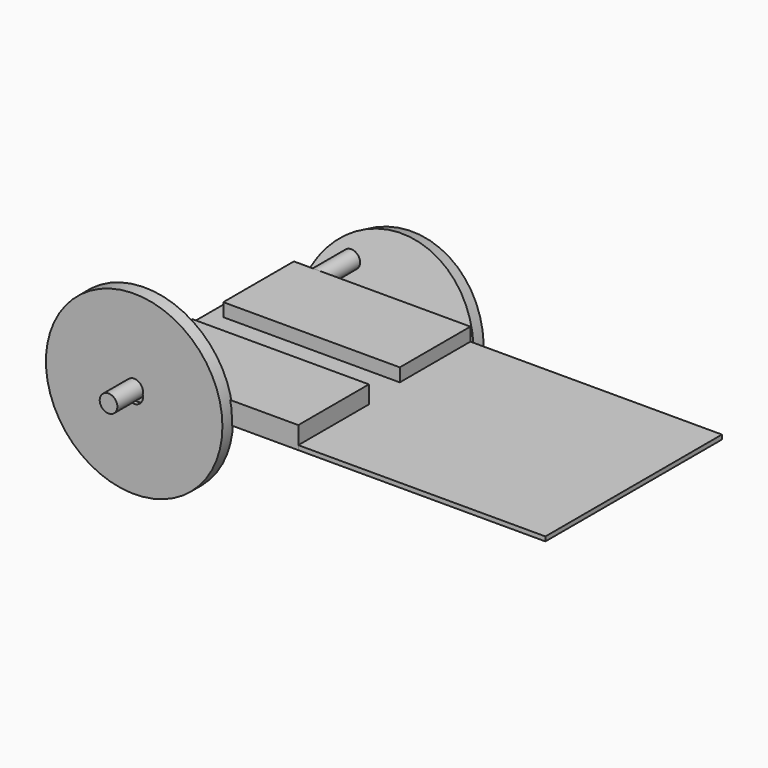
from build123d import *

# Parameters (mm, degrees)
CYLINDER_R             = 2
CYLINDER_DEPTH         = 10
BOX_W                  = 40
BOX_H                  = 20
BOX_DEPTH              = 5
FUSION_PLACEMENT_ANGLE = 180
BOX001_W               = 100
BOX001_H               = 50
BOX001_DEPTH           = 1
CYLINDER002_R          = 2
CYLINDER002_DEPTH      = 10
CYLINDER001_R          = 20
CYLINDER001_DEPTH      = 3
CUT_PLACEMENT_ANGLE    = 90
CYLINDER003_R          = 2
CYLINDER003_DEPTH      = 10
BOX002_W               = 40
BOX002_H               = 20
BOX002_DEPTH           = 5
CYLINDER005_R          = 2
CYLINDER005_DEPTH      = 10
CYLINDER004_R          = 20
CYLINDER004_DEPTH      = 3
CUT001_PLACEMENT_ANGLE = 75


with BuildPart() as cylinder:
    # Cylinder → Cylinder (new body)
    with BuildSketch(Plane(origin=(5, 0, 2), x_dir=(1, 0, 0), z_dir=(0, -1, 0))):
        Circle(CYLINDER_R)
    extrude(amount=CYLINDER_DEPTH)


with BuildPart() as servo_con_eje:
    # Box → Box (new body)
    with BuildSketch(Plane.XY):
        with Locations((20, 10)):
            Rectangle(BOX_W, BOX_H)
    extrude(amount=BOX_DEPTH)

    # Fusion: union Cylinder
    add(cylinder.part)


with BuildPart() as servo_con_eje_1:
    # Fusion placement: moved
    add(servo_con_eje.part.moved(Location((3, 50, 4))).rotate(Axis((3, 50, 4), (1, 0, 0)), FUSION_PLACEMENT_ANGLE))


with BuildPart() as cube001:
    # Box001 → Box001 (new body)
    with BuildSketch(Plane.XY):
        with Locations((50, 25)):
            Rectangle(BOX001_W, BOX001_H)
    extrude(amount=BOX001_DEPTH)


with BuildPart() as cylinder002:
    # Cylinder002 → Cylinder002 (new body)
    with BuildSketch(Plane(origin=(73, 0, 2), x_dir=(1, 0, 0), z_dir=(0, 0, 1))):
        Circle(CYLINDER002_R)
    extrude(amount=CYLINDER002_DEPTH)


with BuildPart() as cut:
    # Cylinder001 → Cylinder001 (new body)
    with BuildSketch(Plane(origin=(73, 0, 0), x_dir=(1, 0, 0), z_dir=(0, 0, 1))):
        Circle(CYLINDER001_R)
    extrude(amount=CYLINDER001_DEPTH)

    # Cut: cut Cylinder002
    add(cylinder002.part, mode=Mode.SUBTRACT)


with BuildPart() as cut_1:
    # Cut placement: moved
    add(cut.part.moved(Location((-64, 0.258819, 0.965926))).rotate(Axis((-64, 0.258819, 0.965926), (1, 0, 0)), CUT_PLACEMENT_ANGLE))


with BuildPart() as cylinder003:
    # Cylinder003 → Cylinder003 (new body)
    with BuildSketch(Plane(origin=(5, 0, 2), x_dir=(1, 0, 0), z_dir=(0, -1, 0))):
        Circle(CYLINDER003_R)
    extrude(amount=CYLINDER003_DEPTH)


with BuildPart() as servo_con_eje001:
    # Box002 → Box002 (new body)
    with BuildSketch(Plane.XY):
        with Locations((20, 10)):
            Rectangle(BOX002_W, BOX002_H)
    extrude(amount=BOX002_DEPTH)

    # Fusion001: union Cylinder003
    add(cylinder003.part)


with BuildPart() as servo_con_eje001_1:
    # Fusion001 placement: moved
    add(servo_con_eje001.part.moved(Location((4, 0, 0))))


with BuildPart() as cylinder005:
    # Cylinder005 → Cylinder005 (new body)
    with BuildSketch(Plane(origin=(73, 0, 2), x_dir=(1, 0, 0), z_dir=(0, 0, 1))):
        Circle(CYLINDER005_R)
    extrude(amount=CYLINDER005_DEPTH)


with BuildPart() as cut001:
    # Cylinder004 → Cylinder004 (new body)
    with BuildSketch(Plane(origin=(73, 0, 0), x_dir=(1, 0, 0), z_dir=(0, 0, 1))):
        Circle(CYLINDER004_R)
    extrude(amount=CYLINDER004_DEPTH)

    # Cut001: cut Cylinder005
    add(cylinder005.part, mode=Mode.SUBTRACT)


with BuildPart() as cut001_1:
    # Cut001 placement: moved
    add(cut001.part.moved(Location((-64, 70.771404, -17.927864))).rotate(Axis((-64, 70.771404, -17.927864), (1, 0, 0)), CUT001_PLACEMENT_ANGLE))


solid = Compound([servo_con_eje_1.part, cube001.part, cut_1.part, servo_con_eje001_1.part, cut001_1.part])
